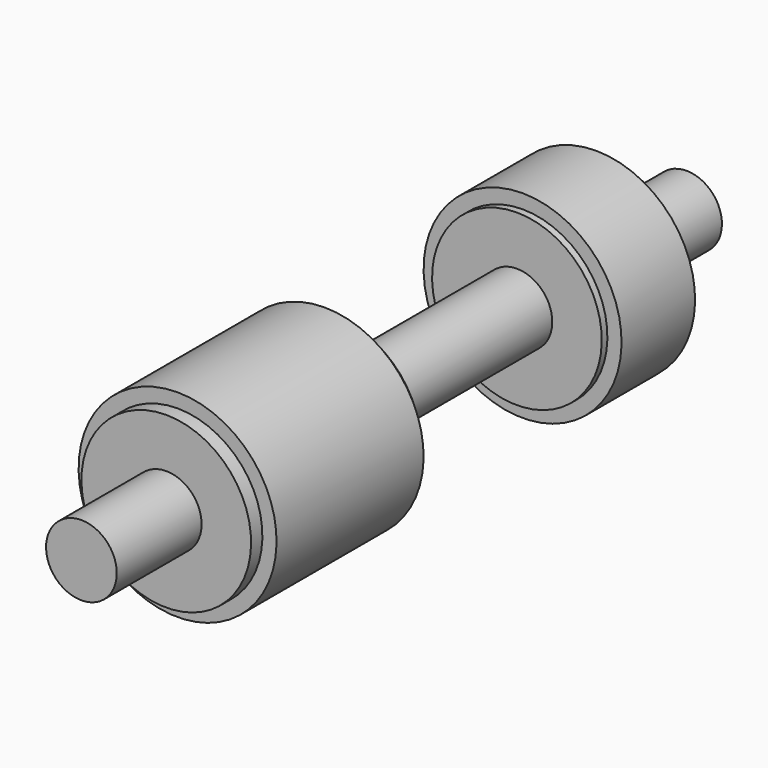
from build123d import *

# Parameters (mm, degrees)
F2_W = 0.2
F2_H = 0.2


with BuildPart() as f1:
    # F0 (on Right) → F1 (revolve)
    with BuildSketch(Plane.YZ):
        Polygon((-1.5, 0.5), (-1.5, 0), (9.2, 0), (9.2, 0.5), (7.7, 0.5), (7.7, 1.2), (6.2, 1.2), (6.2, 0.5), (3, 0.5), (3, 1.4), (0, 1.4), (0, 0.5), align=None)
    revolve(axis=Axis((0, 3.85, 0), (0, -1, 0)))

    # F2 (on Right) → F3 (revolve, cut)
    with BuildSketch(Plane.YZ):
        with Locations((0.1, 1.3)):
            Rectangle(F2_W, F2_H)
        with Locations((2.9, 1.3)):
            Rectangle(F2_W, F2_H)
    revolve(axis=Axis((0, 1.5, 0), (0, 1, 0)), mode=Mode.SUBTRACT)

    # F4 (on Right) → F5 (revolve)
    with BuildSketch(Plane.YZ):
        Polygon((6.3, 1.2), (6.7, 1.2), (7.6, 1.2), (7.6, 1.4), (6.3, 1.4), align=None)
    revolve(axis=Axis((0, 6.95, 0), (0, 1, 0)))


solid = f1.part
